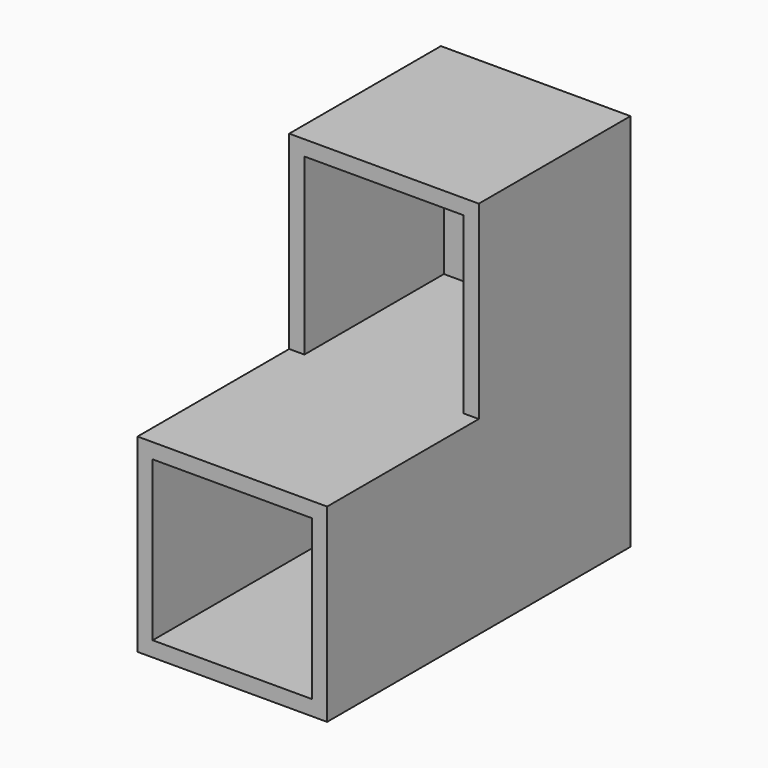
from build123d import *

# Parameters (mm, degrees)
F1_DEPTH = 150
F2_T     = -12
F4_DEPTH = 150


with BuildPart() as f1:
    # F0 (on Right) → F1 (new body)
    with BuildSketch(Plane.YZ):
        Polygon((-150, -150), (150, -150), (150, 150), (0, 150), (0, 0), (-150, 0), align=None)
    extrude(amount=F1_DEPTH)

    # F2
    f2_openings = [f1.faces().sort_by_distance(p)[0] for p in [
        (75, 0, 75),
        (75, -75, 0),
        (75, -150, -75),
    ]]
    offset(amount=F2_T, openings=f2_openings)

    # F3 (on face) → F4 (join)
    with BuildSketch(Plane.YZ.offset(150)):
        Polygon((0, 0), (-150, 0), (-150, -12), (150, -12), (150, 0), align=None)
    extrude(amount=-F4_DEPTH)


solid = f1.part
